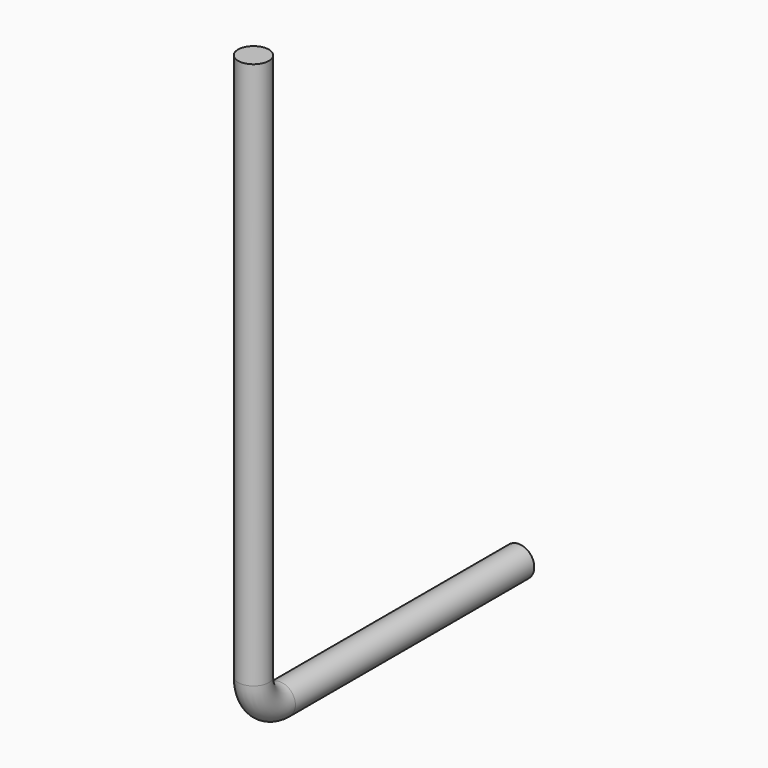
from build123d import *

# Parameters (mm, degrees)
F2_R = 27.85


with BuildPart() as f3:
    # F3: sweep along a path in F0
    with BuildLine(Plane.YZ) as f3_path:
        Line((0, 1050), (0, 60))
        ThreePointArc((0, 60), (17.573593, 17.573593), (60, 0))
        Line((60, 0), (600, 0))
    # F2 (on plane+point) → F3 (sweep)
    with BuildSketch(Plane.XY.offset(1050)):
        Circle(F2_R)
    sweep(path=f3_path.line)


solid = f3.part
